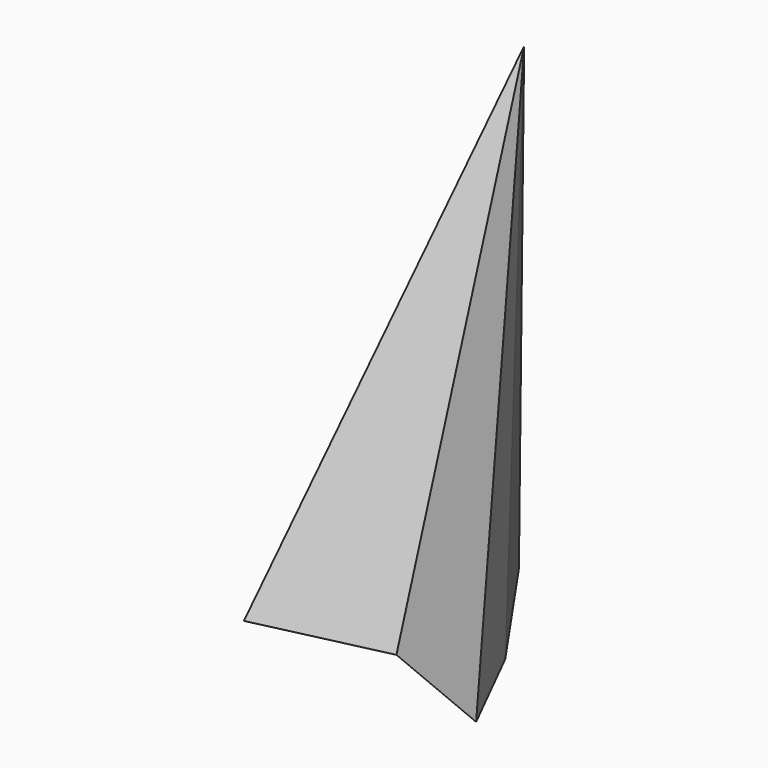
from build123d import *


with BuildPart() as f3:
    # F0 (on Top) → F3 section 0
    with BuildSketch(Plane.XY, mode=Mode.PRIVATE) as f3_s0:
        Polygon((-10.8, 11.85), (-39.6, 8.55), (-39.300002, -39.750002), (-6.6, -32.250002), (23.700001, -44.850003), (11.4, -20.250002), align=None)
    loft([f3_s0.sketch, Vertex(0, 0, 125)])


solid = f3.part
